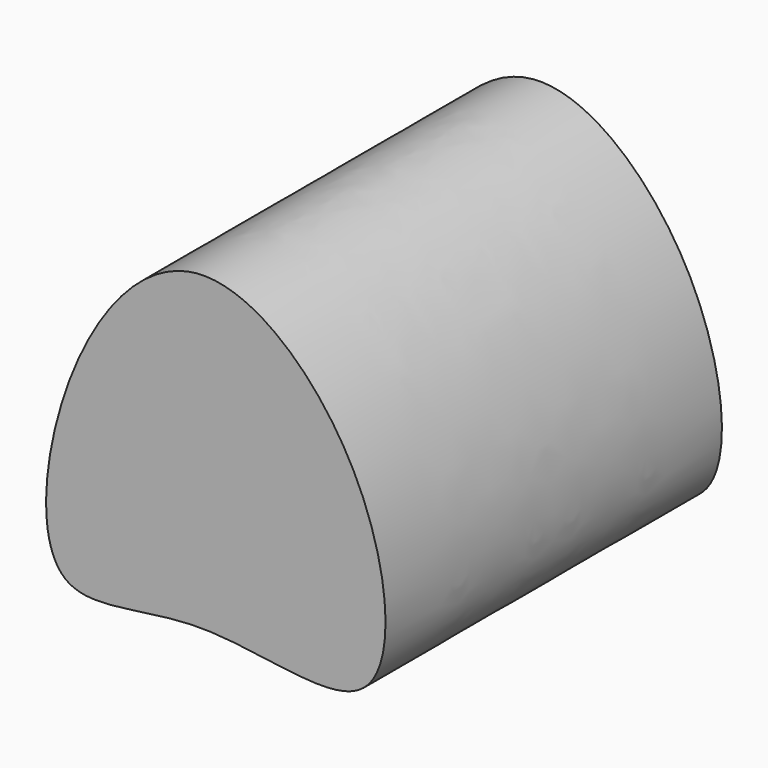
from build123d import *

# Parameters (mm, degrees)
F1_DEPTH = 76.2


with BuildPart() as f1:
    # F0 (on Front) → F1 (new body)
    with BuildSketch(Plane.XZ):
        with BuildLine():
            add(Edge.make_bspline(
                [(-24.4365520775, 0), (-29.6135409459, 4.5013743699), (-26.8508687731, 34.4586546836), (-0.9390234428, 67.0915582377), (33.3018175116, 36.3910821877), (37.0706430024, -9.6153028632), (0.1387610583, 4.288730121), (-19.9083354284, -3.9372691123), (-24.4365520775, 0)],
                knots=[0, 0, 0, 0, 0.1677612363, 0.3405129391, 0.5209905, 0.6913353628, 0.8532623418, 1, 1, 1, 1], degree=3))
        make_face()
    extrude(amount=F1_DEPTH)


solid = f1.part
